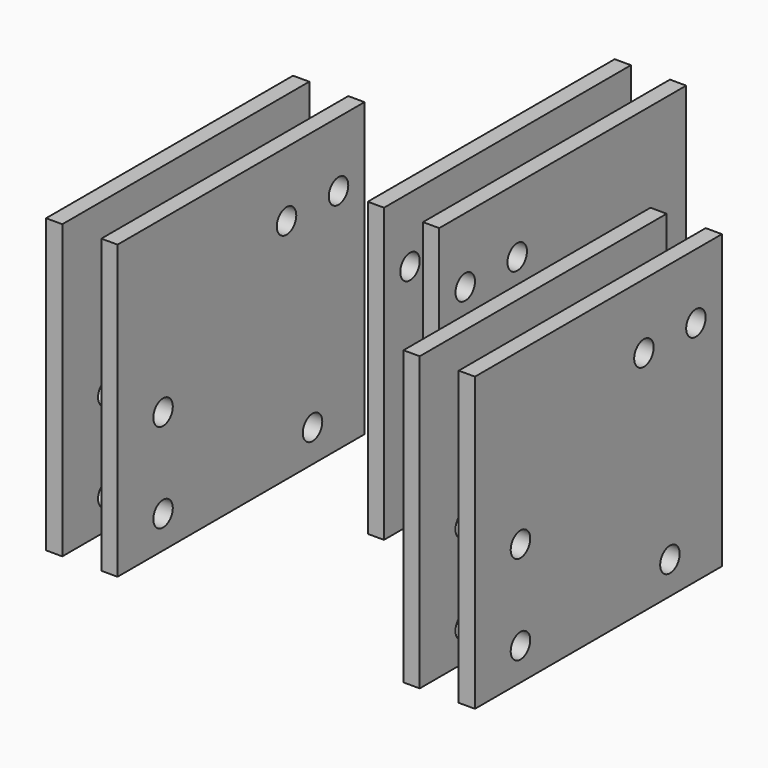
from build123d import *

# Parameters (mm, degrees)
F0_W          = 6.35
F0_H          = 120.65
F1_DEPTH      = 57.15
F2_R          = 4.7625
F3_DEPTH      = 139.701
F3_DEPTH_BACK = 27.941


with BuildPart() as f1:
    # F0 (on Top) → F1 (new body, symmetric)
    with BuildSketch(Plane.XY):
        with Locations((3.175, 60.325)):
            Rectangle(F0_W, F0_H)
    extrude(amount=F1_DEPTH, both=True)


with BuildPart() as f1b:
    # F0 (on Top) → F1, piece 2 (new body, symmetric)
    with BuildSketch(Plane.XY):
        with Locations((24.765, 60.325)):
            Rectangle(F0_W, F0_H)
    extrude(amount=F1_DEPTH, both=True)


with BuildPart() as f1c:
    # F0 (on Top) → F1, piece 3 (new body, symmetric)
    with BuildSketch(Plane.XY):
        with Locations((-66.675, 130.175)):
            Rectangle(F0_W, F0_H)
    extrude(amount=F1_DEPTH, both=True)


with BuildPart() as f1d:
    # F0 (on Top) → F1, piece 4 (new body, symmetric)
    with BuildSketch(Plane.XY):
        with Locations((-45.085, 130.175)):
            Rectangle(F0_W, F0_H)
    extrude(amount=F1_DEPTH, both=True)


with BuildPart() as f1e:
    # F0 (on Top) → F1, piece 5 (new body, symmetric)
    with BuildSketch(Plane.XY):
        with Locations((-136.525, 60.325)):
            Rectangle(F0_W, F0_H)
    extrude(amount=F1_DEPTH, both=True)


with BuildPart() as f1f:
    # F0 (on Top) → F1, piece 6 (new body, symmetric)
    with BuildSketch(Plane.XY):
        with Locations((-114.935, 60.325)):
            Rectangle(F0_W, F0_H)
    extrude(amount=F1_DEPTH, both=True)


with BuildPart() as f3_tool:
    # F2 (on Right) → F3 (new body, two sides)
    with BuildSketch(Plane.YZ) as f3_sk:
        with Locations((82.55, 31.75)):
            Circle(F2_R)
        with Locations((168.275, -44.45)):
            Circle(F2_R)
        with Locations((168.275, -9.525)):
            Circle(F2_R)
        with Locations((22.225, -44.45)):
            Circle(F2_R)
        with Locations((22.225, -9.525)):
            Circle(F2_R)
        with Locations((107.95, 31.75)):
            Circle(F2_R)
        with Locations((95.25, -44.45)):
            Circle(F2_R)
    extrude(amount=-F3_DEPTH)
    extrude(f3_sk.sketch, amount=F3_DEPTH_BACK)


with BuildPart() as f1_1:
    add(f1.part)

    # F3: cut by f3_tool
    add(f3_tool.part, mode=Mode.SUBTRACT)


with BuildPart() as f1b_1:
    add(f1b.part)

    # F3: cut by f3_tool
    add(f3_tool.part, mode=Mode.SUBTRACT)


with BuildPart() as f1c_1:
    add(f1c.part)

    # F3: cut by f3_tool
    add(f3_tool.part, mode=Mode.SUBTRACT)


with BuildPart() as f1d_1:
    add(f1d.part)

    # F3: cut by f3_tool
    add(f3_tool.part, mode=Mode.SUBTRACT)


with BuildPart() as f1e_1:
    add(f1e.part)

    # F3: cut by f3_tool
    add(f3_tool.part, mode=Mode.SUBTRACT)


with BuildPart() as f1f_1:
    add(f1f.part)

    # F3: cut by f3_tool
    add(f3_tool.part, mode=Mode.SUBTRACT)


solid = Compound([f1_1.part, f1b_1.part, f1c_1.part, f1d_1.part, f1e_1.part, f1f_1.part])
